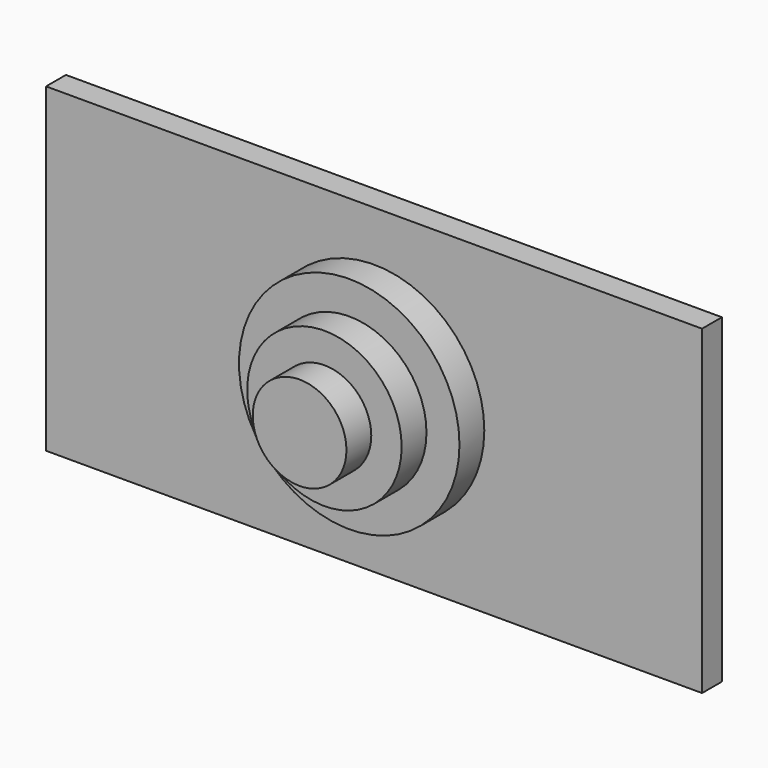
from build123d import *

# Parameters (mm, degrees)
F0_W     = 105.6834086776
F0_H     = 51.6841448843
F0_R     = 17.6030862499
F0_R_2   = 12.5238799036
F0_R_3   = 7.5238607233
F0_R_4   = 3.1994051996
F0_R_5   = 1.8202490714
F1_DEPTH = 4
F2_R     = 17.7598613425
F3_DEPTH = 5
F4_R     = 12.4433858389
F5_DEPTH = 10
F6_R     = 7.5502139522
F7_DEPTH = 15
F8_R     = 3.0929644542
F9_DEPTH = 3


with BuildPart() as f1:
    # F0 (on Front) → F1 (new body)
    with BuildSketch(Plane.XZ):
        Rectangle(F0_W, F0_H)
        Circle(F0_R, mode=Mode.SUBTRACT)
        Circle(F0_R)
        Circle(F0_R_2, mode=Mode.SUBTRACT)
        Circle(F0_R_2)
        Circle(F0_R_3, mode=Mode.SUBTRACT)
        Circle(F0_R_3)
        Circle(F0_R_4, mode=Mode.SUBTRACT)
        Circle(F0_R_4)
        Circle(F0_R_5, mode=Mode.SUBTRACT)
        Circle(F0_R_5)
    extrude(amount=F1_DEPTH)

    # F2 (on face) → F3 (join)
    with BuildSketch(Plane.XZ.offset(4)):
        Circle(F2_R)
    extrude(amount=F3_DEPTH)

    # F4 (on face) → F5 (join)
    with BuildSketch(Plane.XZ.offset(4)):
        Circle(F4_R)
    extrude(amount=F5_DEPTH)

    # F6 (on face) → F7 (join)
    with BuildSketch(Plane.XZ.offset(4)):
        Circle(F6_R)
    extrude(amount=F7_DEPTH)

    # F8 (on Front) → F9 (cut)
    with BuildSketch(Plane.XZ):
        Circle(F8_R)
    extrude(amount=F9_DEPTH, mode=Mode.SUBTRACT)


solid = f1.part
